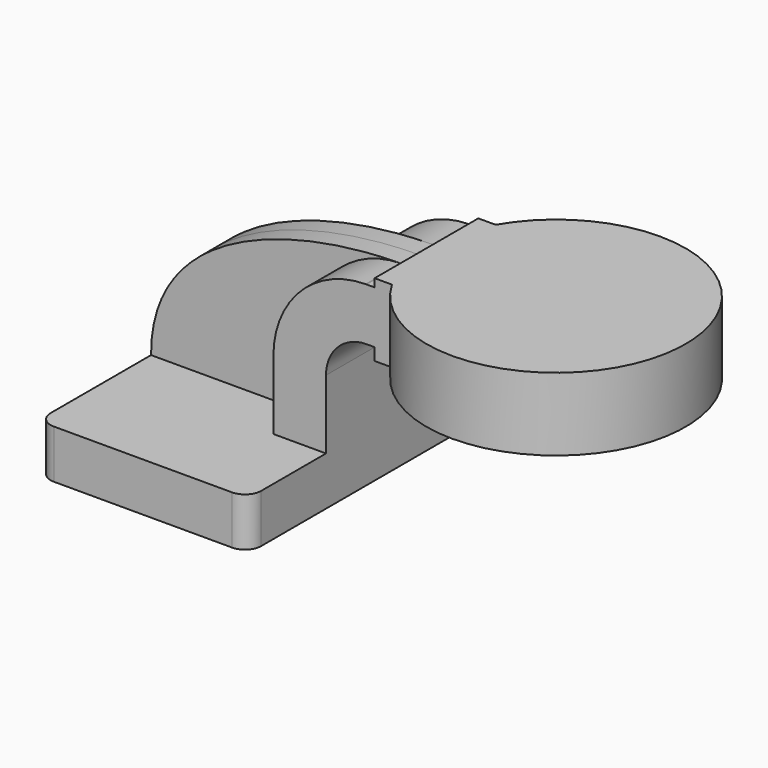
from build123d import *

# Parameters (mm, degrees)
F1_DEPTH = 63.5
F2_DEPTH = 25.4
F3_DEPTH = 7.9375
F5_R     = 6.35


with BuildPart() as f1:
    # F0 (on Front) → F1 (new body, symmetric)
    with BuildSketch(Plane.XZ):
        Polygon((41.275, -9.525), (41.275, 9.525), (20.660926, 9.525), (-41.275, 9.525), (-41.275, -9.525), align=None)
    extrude(amount=F1_DEPTH, both=True)

    # F0 (on Front) → F2 (join, symmetric)
    with BuildSketch(Plane.XZ):
        with BuildLine():
            Line((20.660926, 9.525), (41.275, 9.525))
            Line((41.275, 9.525), (41.275, 36.5252))
            ThreePointArc((41.275, 36.5252), (45.92468, 47.75052), (57.15, 52.4002))
            Line((57.15, 52.4002), (60.325, 52.4002))
            Line((60.325, 52.4002), (60.325, 73.014274))
            Line((60.325, 73.014274), (57.15, 73.014274))
            add(Edge.make_bspline(
                [(56.793396, 73.012532), (56.912382, 73.013238), (57.03125, 73.013819), (57.15, 73.014274)],
                knots=[116.793783, 116.793783, 116.793783, 116.793783, 117.12544, 117.12544, 117.12544, 117.12544], degree=3))
            ThreePointArc((56.793396, 73.012532), (31.222556, 62.200484), (20.660926, 36.5252))
            Line((20.660926, 36.5252), (20.660926, 9.525))
        make_face()
        Polygon((60.325, 73.014274), (60.325, 52.4002), (60.325, 47.625), (111.125, 47.625), (111.125, 76.2), (60.325, 76.2), align=None)
    extrude(amount=F2_DEPTH, both=True)

    # F0 (on Front) → F3 (join, symmetric)
    with BuildSketch(Plane.XZ):
        with BuildLine():
            Line((-41.275, 9.525), (20.660926, 9.525))
            Line((20.660926, 9.525), (20.660926, 36.5252))
            ThreePointArc((20.660926, 36.5252), (31.222556, 62.200484), (56.793396, 73.012532))
            add(Edge.make_bspline(
                [(-41.275, 9.525), (-41.534558, 56.956479), (14.892301, 72.763843), (56.793396, 73.012532)],
                knots=[0, 0, 0, 0, 116.793783, 116.793783, 116.793783, 116.793783], degree=3))
        make_face()
    extrude(amount=F3_DEPTH, both=True)

    # F0 (on Front) → F4 (revolve)
    with BuildSketch(Plane.XZ):
        Polygon((60.325, 73.014274), (60.325, 52.4002), (60.325, 47.625), (111.125, 47.625), (111.125, 76.2), (60.325, 76.2), align=None)
    revolve(axis=Axis((111.125, 0, 61.9125), (0, 0, -1)))

    # F5
    f5_edges = [f1.edges().sort_by_distance(p)[0] for p in [
        (41.275, -63.5, 0),
        (-41.275, -63.5, 0),
        (41.275, 63.5, 0),
        (-41.275, 63.5, 0),
    ]]
    fillet(f5_edges, radius=F5_R)


solid = f1.part
